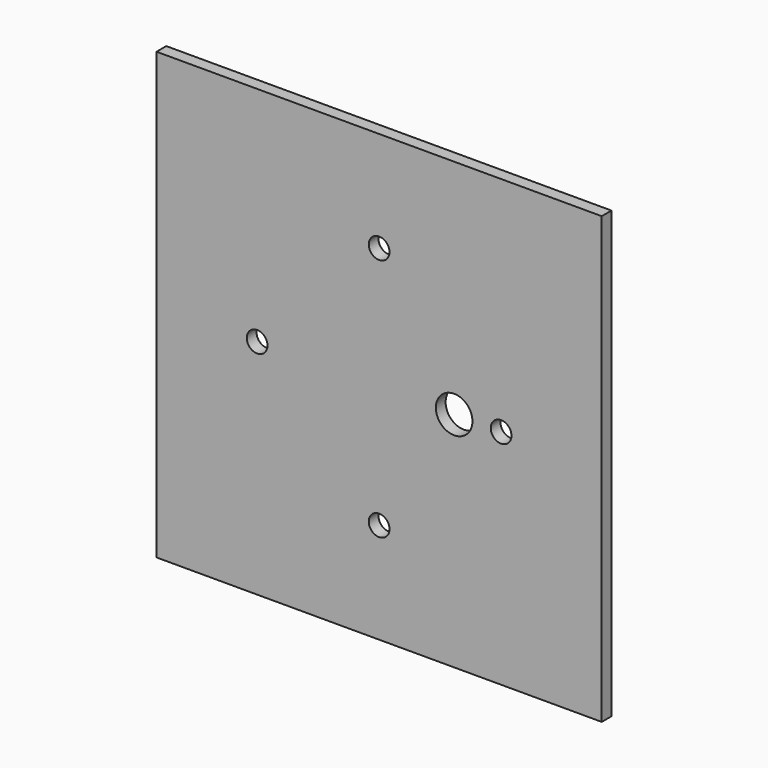
from build123d import *

# Parameters (mm, degrees)
F0_R     = 1.7
F0_R_2   = 3
F1_DEPTH = 2


with BuildPart() as f1:
    # F0 (on Front) → F1 (new body)
    with BuildSketch(Plane.XZ):
        Polygon((36.5, -36.5), (36.5, 0), (36.5, 36.5), (0, 36.5), (-36.5, 36.5), (-36.5, 0), (-36.5, -36.5), (0, -36.5), align=None)
        with Locations((0, -20)):
            Circle(F0_R, mode=Mode.SUBTRACT)
        with Locations((-20, 0)):
            Circle(F0_R, mode=Mode.SUBTRACT)
        with Locations((12.3, 0)):
            Circle(F0_R_2, mode=Mode.SUBTRACT)
        with Locations((20, 0)):
            Circle(F0_R, mode=Mode.SUBTRACT)
        with Locations((0, 20)):
            Circle(F0_R, mode=Mode.SUBTRACT)
    extrude(amount=F1_DEPTH)


solid = f1.part
